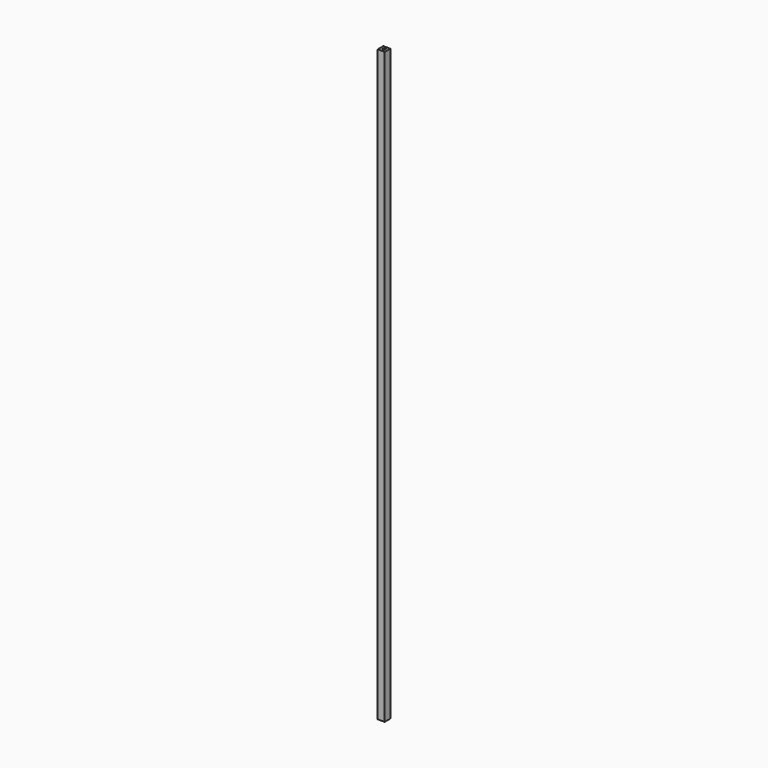
from build123d import *

# Parameters (mm, degrees)
F0_W     = 15
F0_H     = 1270
F1_DEPTH = 7.5
F2_W     = 5
F2_H     = 5
F3_DEPTH = 1270


with BuildPart() as f1:
    # F0 (on Front) → F1 (new body, symmetric)
    with BuildSketch(Plane.XZ):
        with Locations((-51.590739, 562.906827)):
            Rectangle(F0_W, F0_H)
    extrude(amount=F1_DEPTH, both=True)

    # F2 (on face) → F3 (cut)
    with BuildSketch(Plane(origin=(0, 0, -72.093173), x_dir=(1, 0, 0), z_dir=(0, 0, -1))):
        with Locations((-51.590739, 0)):
            Rectangle(F2_W, F2_H)
    extrude(amount=-F3_DEPTH, mode=Mode.SUBTRACT)


solid = f1.part
